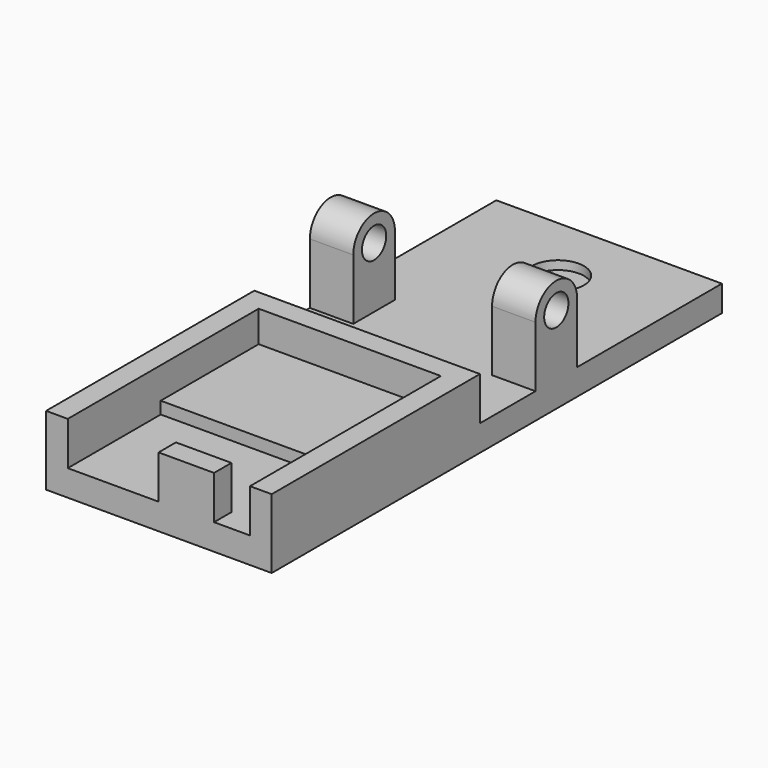
from build123d import *

# Parameters (mm, degrees)
F0_W     = 6.3956826925
F0_H     = 2.5
F0_W_2   = 4.1414871812
F0_W_3   = 5.4119601846
F0_W_4   = 5.0508699417
F0_W_5   = 26
F0_H_2   = 34.8582080007
F0_R     = 3
F0_W_6   = 21
F0_H_3   = 14.1105238348
F1_DEPTH = 3
F2_DEPTH = 5
F3_DEPTH = 1.4
F5_DEPTH = 5
F7_DEPTH = 5
F8_R     = 3
F9_DEPTH = 2


with BuildPart() as f1:
    # F0 (on Top) → F1 (new body)
    with BuildSketch(Plane.XY):
        with Locations((-7.3393285275, -1.25)):
            Rectangle(F0_W, F0_H)
        with Locations((-2.0707435906, -1.25)):
            Rectangle(F0_W_2, F0_H)
        with Locations((-13.243149966, -1.25)):
            Rectangle(F0_W_3, F0_H)
        Polygon((0, 10.8894761652), (0, 0), (0, -2.5), (2.5, -2.5), (2.5, 27.5), (-23.5, 27.5), (-23.5, -2.5), (-21, -2.5), (-21, 0), (-21, 10.8894761652), (-21, 25), (0, 25), align=None)
        with Locations((-18.4745650291, -1.25)):
            Rectangle(F0_W_4, F0_H)
        with Locations((-10.5, 44.9291040003)):
            Rectangle(F0_W_5, F0_H_2)
        with Locations((-10, 54.3582080007)):
            Circle(F0_R, mode=Mode.SUBTRACT)
        with Locations((-10.5, 17.9447380826)):
            Rectangle(F0_W_6, F0_H_3)
        Polygon((-4.1414871812, 0), (0, 0), (0, 10.8894761652), (-21, 10.8894761652), (-21, 0), (-15.9491300583, 0), (-10.5371698737, 0), align=None)
    extrude(amount=-F1_DEPTH)

    # F0 (on Top) → F2 (join)
    with BuildSketch(Plane.XY):
        Polygon((0, 10.8894761652), (0, 0), (0, -2.5), (2.5, -2.5), (2.5, 27.5), (-23.5, 27.5), (-23.5, -2.5), (-21, -2.5), (-21, 0), (-21, 10.8894761652), (-21, 25), (0, 25), align=None)
        with Locations((-7.3393285275, -1.25)):
            Rectangle(F0_W, F0_H)
    extrude(amount=F2_DEPTH)

    # F0 (on Top) → F3 (join)
    with BuildSketch(Plane.XY):
        with Locations((-10.5, 17.9447380826)):
            Rectangle(F0_W_6, F0_H_3)
    extrude(amount=F3_DEPTH)

    # F4 (on face) → F5 (join)
    with BuildSketch(Plane.YZ.offset(2.5)):
        with BuildLine():
            ThreePointArc((41.5, 7), (38.5, 10), (35.5, 7))
            Line((35.5, 7), (36.75, 7))
            ThreePointArc((36.75, 7), (38.5, 8.75), (40.25, 7))
            Line((40.25, 7), (41.5, 7))
        make_face()
        with BuildLine():
            Line((35.5, 7), (35.5, 0))
            Line((35.5, 0), (41.5, 0))
            Line((41.5, 0), (41.5, 7))
            Line((41.5, 7), (40.25, 7))
            ThreePointArc((40.25, 7), (38.5, 5.25), (36.75, 7))
            Line((36.75, 7), (35.5, 7))
        make_face()
    extrude(amount=-F5_DEPTH)

    # F6 (on face) → F7 (join)
    with BuildSketch(Plane(origin=(-23.5, 0, 0), x_dir=(0, -1, 0), z_dir=(-1, 0, 0))):
        with BuildLine():
            Line((-41.5, 7), (-41.5, 0))
            Line((-41.5, 0), (-35.5, 0))
            Line((-35.5, 0), (-35.5, 7))
            Line((-35.5, 7), (-36.75, 7))
            ThreePointArc((-36.75, 7), (-38.5, 5.25), (-40.25, 7))
            Line((-40.25, 7), (-41.5, 7))
        make_face()
        with BuildLine():
            ThreePointArc((-35.5, 7), (-38.5, 10), (-41.5, 7))
            Line((-41.5, 7), (-40.25, 7))
            ThreePointArc((-40.25, 7), (-38.5, 8.75), (-36.75, 7))
            Line((-36.75, 7), (-35.5, 7))
        make_face()
    extrude(amount=-F7_DEPTH)

    # F8 (on face) → F9 (join)
    with BuildSketch(Plane(origin=(0, 0, -3), x_dir=(1, 0, 0), z_dir=(0, 0, -1))):
        with Locations((-10, -54.3582080007)):
            Circle(F8_R)
    extrude(amount=-F9_DEPTH)


solid = f1.part
